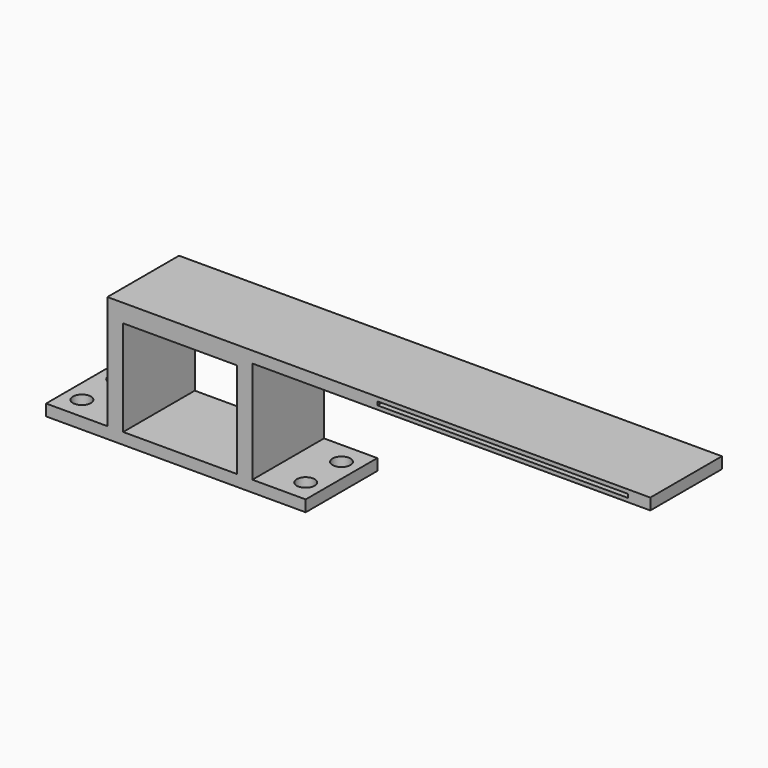
from build123d import *

# Parameters (mm, degrees)
F0_W     = 58
F0_H     = 20
F0_R     = 2
F1_DEPTH = 2.54
F2_W     = 32.392131
F2_H     = 20
F3_DEPTH = 25.4
F4_W     = 20
F4_H     = 2.54
F5_DEPTH = 88.9
F6_W     = 56
F6_H     = 0.8
F7_DEPTH = 20.001
F8_W     = 25.481197
F8_H     = 21.373894
F9_DEPTH = 20.001


with BuildPart() as f1:
    # F0 (on Top) → F1 (new body)
    with BuildSketch(Plane.XY):
        Rectangle(F0_W, F0_H)
        with Locations((-25, -5)):
            Circle(F0_R, mode=Mode.SUBTRACT)
        with Locations((25, -5)):
            Circle(F0_R, mode=Mode.SUBTRACT)
        with Locations((-25, 5)):
            Circle(F0_R, mode=Mode.SUBTRACT)
        with Locations((25, 5)):
            Circle(F0_R, mode=Mode.SUBTRACT)
    extrude(amount=F1_DEPTH)

    # F2 (on face) → F3 (join)
    with BuildSketch(Plane.XY.offset(2.54)):
        with Locations((0.897951, 0)):
            Rectangle(F2_W, F2_H)
    extrude(amount=F3_DEPTH)

    # F4 (on face) → F5 (join)
    with BuildSketch(Plane.YZ.offset(17.094016)):
        with Locations((0, 26.67)):
            Rectangle(F4_W, F4_H)
    extrude(amount=F5_DEPTH)

    # F6 (on face) → F7 (cut, through all)
    with BuildSketch(Plane(origin=(0, 10, 0), x_dir=(-1, 0, 0), z_dir=(0, 1, 0))):
        with Locations((-72.994016, 26.651)):
            Rectangle(F6_W, F6_H)
    extrude(amount=-F7_DEPTH, mode=Mode.SUBTRACT)

    # F8 (on face) → F9 (cut, through all)
    with BuildSketch(Plane.XZ.offset(10)):
        with Locations((0.961546, 13.226947)):
            Rectangle(F8_W, F8_H)
    extrude(amount=-F9_DEPTH, mode=Mode.SUBTRACT)


solid = f1.part
